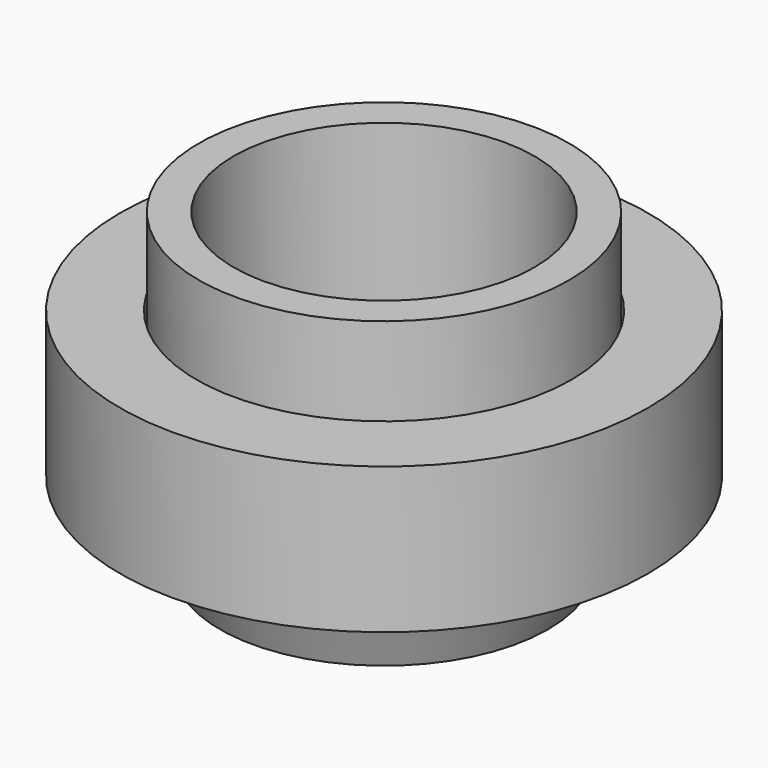
from build123d import *


with BuildPart() as f1:
    # F0 (on Front) → F1 (revolve)
    with BuildSketch(Plane.XZ):
        Polygon((16.2, 5), (16.2, 0), (22.8, 0), (22.8, 12.6), (16.2, 12.6), (16.2, 10.223717), (16.2, 7.6), (17.8, 7.6), (17.8, 6.3), (17.8, 5), align=None)
        Polygon((16, -2.036442), (16, 6.3), (16, 8.923717), (14.4, 8.923717), (14.4, 10.223717), (14.4, 11.523717), (16, 11.523717), (16, 20.105768), (13, 20.105768), (13, -7.036442), (14.180149, -7.036442), align=None)
        with BuildLine():
            add(Edge.make_bspline(
                [(16, 6.3), (16, 5.135), (16.9, 5.135), (17.8, 5.135), (17.8, 6.3)],
                knots=[1.570796, 1.570796, 1.570796, 3.141593, 3.141593, 4.712389, 4.712389, 4.712389], degree=2, weights=[1, 0.707107, 1, 0.707107, 1]))
            add(Edge.make_bspline(
                [(17.8, 6.3), (17.8, 7.465), (16.9, 7.465), (16, 7.465), (16, 6.3)],
                knots=[4.712389, 4.712389, 4.712389, 6.283185, 6.283185, 7.853982, 7.853982, 7.853982], degree=2, weights=[1, 0.707107, 1, 0.707107, 1]))
        make_face()
        with BuildLine():
            add(Edge.make_bspline(
                [(14.4, 10.223717), (14.4, 9.058717), (15.3, 9.058717), (16.2, 9.058717), (16.2, 10.223717)],
                knots=[4.712389, 4.712389, 4.712389, 6.283185, 6.283185, 7.853982, 7.853982, 7.853982], degree=2, weights=[1, 0.707107, 1, 0.707107, 1]))
            add(Edge.make_bspline(
                [(16.2, 10.223717), (16.2, 11.388717), (15.3, 11.388717), (14.4, 11.388717), (14.4, 10.223717)],
                knots=[1.570796, 1.570796, 1.570796, 3.141593, 3.141593, 4.712389, 4.712389, 4.712389], degree=2, weights=[1, 0.707107, 1, 0.707107, 1]))
        make_face()
    revolve(axis=Axis((0, 0, -0.487499), (0, 0, -1)))


solid = f1.part
